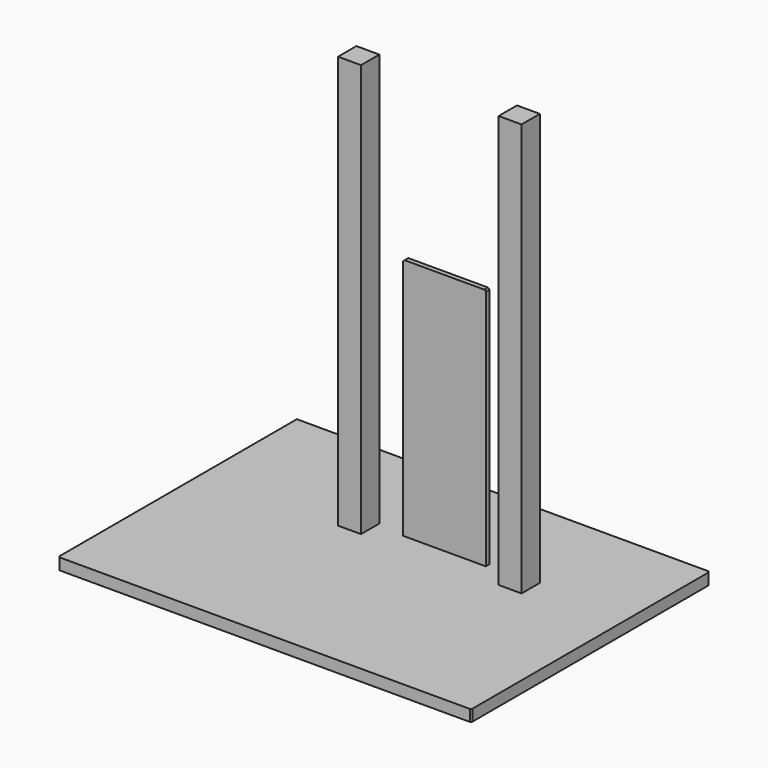
from build123d import *

# Parameters (mm, degrees)
F1_DEPTH  = 25
F2_W      = 50
F2_H      = 50
F3_DEPTH  = 900
F4_W      = 50
F4_H      = 50
F5_DEPTH  = 900
F6_W      = 180
F6_H      = 10
F7_DEPTH  = 530
F10_DEPTH = 10
F11_SIZE  = 3


with BuildPart() as f1:
    # F0 (on Top) → F1 (new body)
    with BuildSketch(Plane.XY):
        Polygon((0, 3), (3, 0), (897, 0), (900, 3), (900, 647), (897, 650), (0, 650), align=None)
    extrude(amount=F1_DEPTH)

    # F2 (on face) → F3 (join)
    with BuildSketch(Plane.XY.offset(25)):
        with Locations((675, 412.296289)):
            Rectangle(F2_W, F2_H)
    extrude(amount=F3_DEPTH)

    # F4 (on face) → F5 (join)
    with BuildSketch(Plane.XY.offset(25)):
        with Locations((325, 412.296289)):
            Rectangle(F4_W, F4_H)
    extrude(amount=F5_DEPTH)

    # F6 (on face) → F7 (join)
    with BuildSketch(Plane.XY.offset(25)):
        with Locations((500, 432.296289)):
            Rectangle(F6_W, F6_H)
    extrude(amount=F7_DEPTH)

    # F9 (on face) → F10 (join, through all)
    with BuildSketch(Plane.XZ.offset(-427.296289)):
        Polygon((410, 555), (410, 552), (413, 555), align=None)
    extrude(amount=-F10_DEPTH)

    # F11
    f11_edges = [f1.edges().sort_by_distance(p)[0] for p in [
        (410, 432.296289, 555),
        (590, 432.296289, 555),
    ]]
    chamfer(f11_edges, length=F11_SIZE)


solid = f1.part
